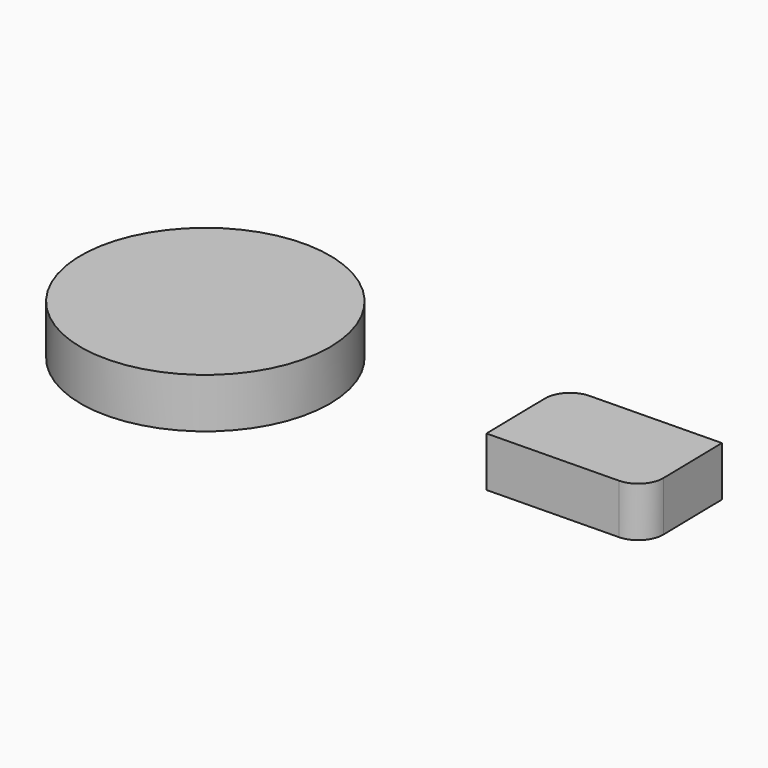
from build123d import *

# Parameters (mm, degrees)
CYLINDER_R          = 10
CYLINDER_DEPTH      = 4
BOX_W               = 12.5
BOX_H               = 8
BOX_DEPTH           = 4
BOX_PLACEMENT_ANGLE = 1
FILLET_R            = 2


with BuildPart() as cylinder:
    # Cylinder → Cylinder (new body)
    with BuildSketch(Plane(origin=(-12, 36, 0), x_dir=(1, 0, 0), z_dir=(0, 0, 1))):
        Circle(CYLINDER_R)
    extrude(amount=CYLINDER_DEPTH)


with BuildPart() as fillet_body:
    # Box → Box (new body)
    with BuildSketch(Plane.XY):
        with Locations((6.25, 4)):
            Rectangle(BOX_W, BOX_H)
    extrude(amount=BOX_DEPTH)


with BuildPart() as fillet_body_1:
    # Box placement: moved
    add(fillet_body.part.moved(Location((13, 33, 0))).rotate(Axis((13, 33, 0), (0, 0, 1)), BOX_PLACEMENT_ANGLE))

    # Fusion: union Cylinder
    add(cylinder.part)

    # Fillet
    fillet_edges = [fillet_body_1.edges().sort_by_distance(p)[0] for p in [
        (12.860381, 40.998782, 2),
        (25.498096, 33.218155, 2),
    ]]
    fillet(fillet_edges, radius=FILLET_R)


solid = fillet_body_1.part
